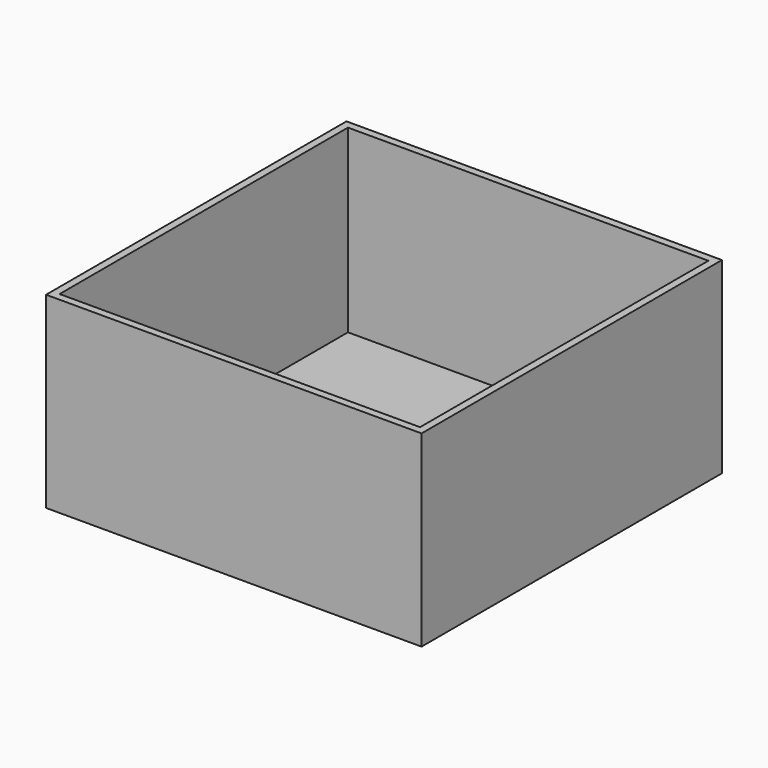
from build123d import *

# Parameters (mm, degrees)
F0_W          = 127
F0_H          = 63.5
F1_DEPTH      = 63.5
F1_DEPTH_BACK = 63.5
F2_T          = -2.54


with BuildPart() as f1:
    # F0 (on Front) → F1 (new body, two sides)
    with BuildSketch(Plane.XZ) as f1_sk:
        with Locations((0, 31.75)):
            Rectangle(F0_W, F0_H)
    extrude(amount=F1_DEPTH)
    extrude(f1_sk.sketch, amount=-F1_DEPTH_BACK)

    # F2
    f2_openings = [f1.faces().sort_by_distance(p)[0] for p in [
        (0, 0, 63.5),
    ]]
    offset(amount=F2_T, openings=f2_openings)


solid = f1.part
